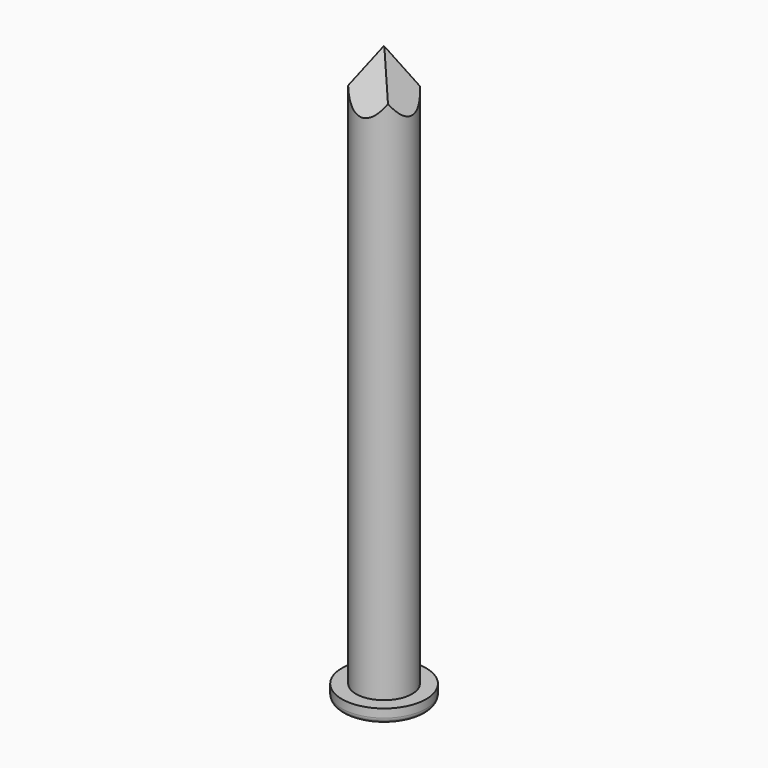
from build123d import *

# Parameters (mm, degrees)
F0_R          = 0.5
F1_DEPTH      = 10
F0_R_2        = 0.75
F2_DEPTH      = 0.25
F3_R          = 0.1
F5_DEPTH      = 25
F5_DEPTH_BACK = 25
F7_DEPTH      = 25
F7_DEPTH_BACK = 25


with BuildPart() as f1:
    # F0 (on Top) → F1 (new body)
    with BuildSketch(Plane.XY):
        Circle(F0_R)
    extrude(amount=F1_DEPTH)

    # F0 (on Top) → F2 (join)
    with BuildSketch(Plane.XY):
        Circle(F0_R_2)
        Circle(F0_R, mode=Mode.SUBTRACT)
        Circle(F0_R)
    extrude(amount=-F2_DEPTH)

    # F3
    f3_edges = [f1.edges().sort_by_distance(p)[0] for p in [
        (-0.75, 0, -0.25),
    ]]
    fillet(f3_edges, radius=F3_R)

    # F4 (on Right) → F5 (cut, two sides)
    with BuildSketch(Plane.YZ) as f5_sk:
        Polygon((-0.677386, 8.761818), (0, 10.000281), (0.69153, 8.720125), (0.69153, 10.707485), (-0.809413, 10.707485), align=None)
    extrude(amount=F5_DEPTH, mode=Mode.SUBTRACT)
    extrude(f5_sk.sketch, amount=-F5_DEPTH_BACK, mode=Mode.SUBTRACT)

    # F6 (on Front) → F7 (cut, two sides)
    with BuildSketch(Plane.XZ) as f7_sk:
        Polygon((-0.791911, 8.716712), (0, 10.009787), (0.678298, 8.74771), (0.678298, 10.293201), (-0.791911, 10.293201), align=None)
    extrude(amount=F7_DEPTH, mode=Mode.SUBTRACT)
    extrude(f7_sk.sketch, amount=-F7_DEPTH_BACK, mode=Mode.SUBTRACT)


solid = f1.part
